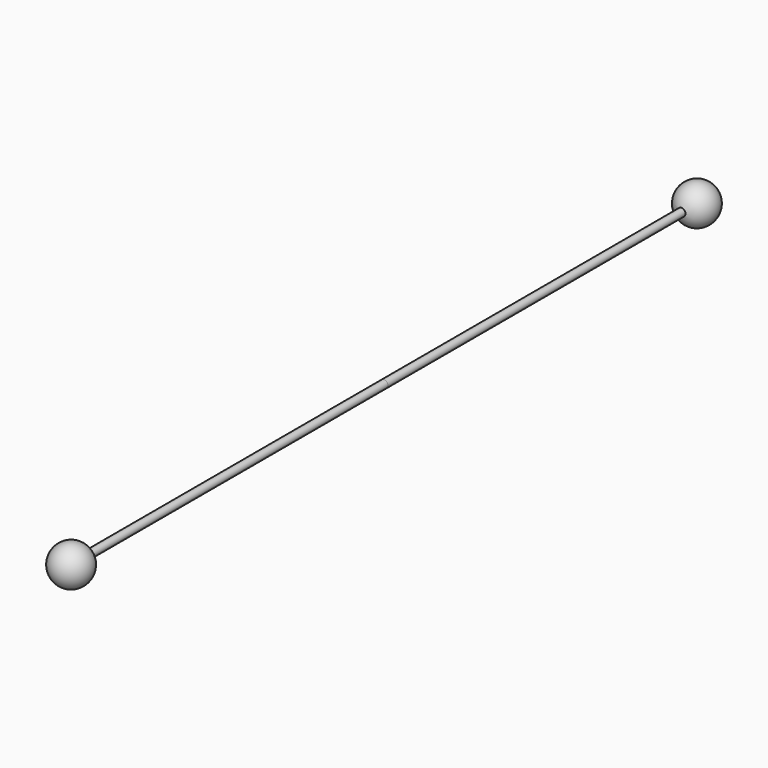
from build123d import *

# Parameters (mm, degrees)
F0_R     = 1
F1_DEPTH = 100


with BuildPart() as f1:
    # F0 (on Front) → F1 (new body)
    with BuildSketch(Plane.XZ):
        Circle(F0_R)
    extrude(amount=F1_DEPTH)

    # F2 (on face) → F3 (revolve)
    with BuildSketch(Plane.XZ.offset(100)):
        with BuildLine():
            Line((0, 1), (0, 5))
            ThreePointArc((0, 5), (-5, 0), (0, -5))
            Line((0, -5), (0, -1))
            ThreePointArc((0, -1), (-1, 0), (0, 1))
        make_face()
    revolve(axis=Axis((0, -100, 0), (0, 0, -1)))

    # F4: F1 across plane


with BuildPart() as f1_1:
    add(f1.part)
    add(f1.part.mirror(Plane.XZ))


solid = f1_1.part
